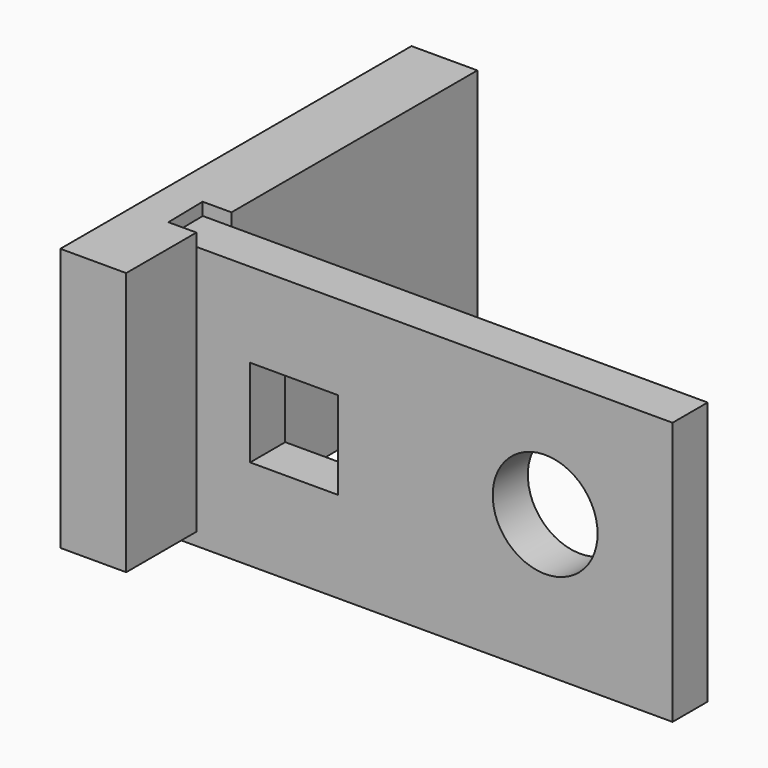
from build123d import *

# Parameters (mm, degrees)
F0_W     = 146.05
F0_H     = 76.2
F0_W_2   = 25.4
F0_H_2   = 25.4
F0_R     = 15.176992
F1_DEPTH = 12.7
F3_DEPTH = 76.2


with BuildPart() as f1:
    # F0 (on Front) → F1 (new body)
    with BuildSketch(Plane.XZ):
        with Locations((-16.311467, 34.471862)):
            Rectangle(F0_W, F0_H)
        with Locations((-52.800478, 35.423604)):
            Rectangle(F0_W_2, F0_H_2, mode=Mode.SUBTRACT)
        with Locations((19.859284, 37.236158)):
            Circle(F0_R, mode=Mode.SUBTRACT)
    extrude(amount=F1_DEPTH)

    # F2 (on Top) → F3 (join)
    with BuildSketch(Plane.XY):
        Polygon((-100.113213, -38.069502), (-81.063213, -38.069502), (-81.063213, -12.669502), (-89.156985, -12.669502), (-89.397579, 0), (-81.063213, 0), (-81.063213, 88.930498), (-100.113213, 88.930498), align=None)
    extrude(amount=F3_DEPTH)


solid = f1.part
